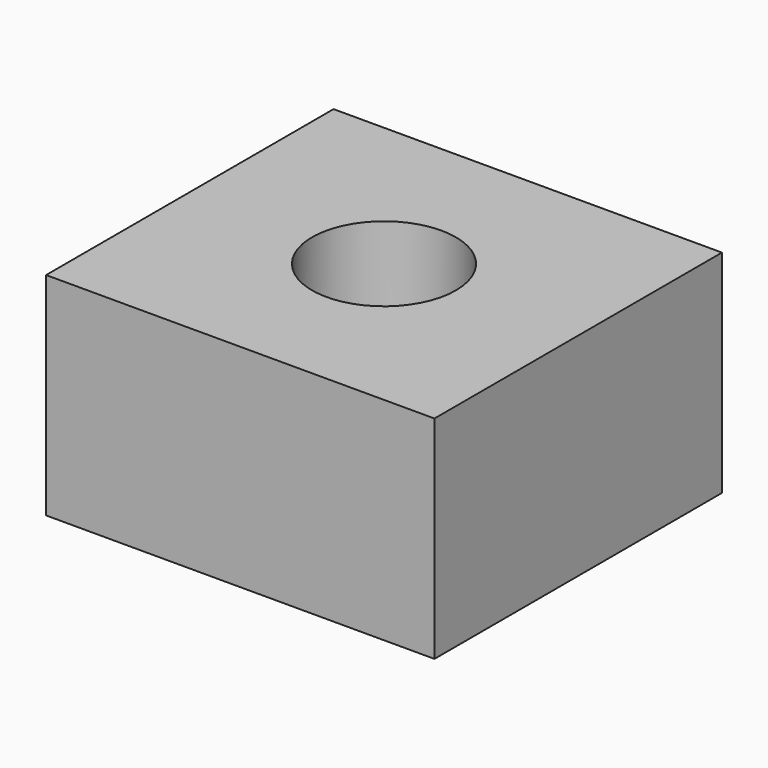
from build123d import *

# Parameters (mm, degrees)
SKETCH_W  = 3.67
SKETCH_H  = 3.395748
SKETCH_R  = 0.679783
PAD_DEPTH = 2


with BuildPart() as part:
    # Sketch → Pad (new body)
    with BuildSketch(Plane.XY):
        Rectangle(SKETCH_W, SKETCH_H)
        Circle(SKETCH_R, mode=Mode.SUBTRACT)
    extrude(amount=PAD_DEPTH)


solid = part.part
